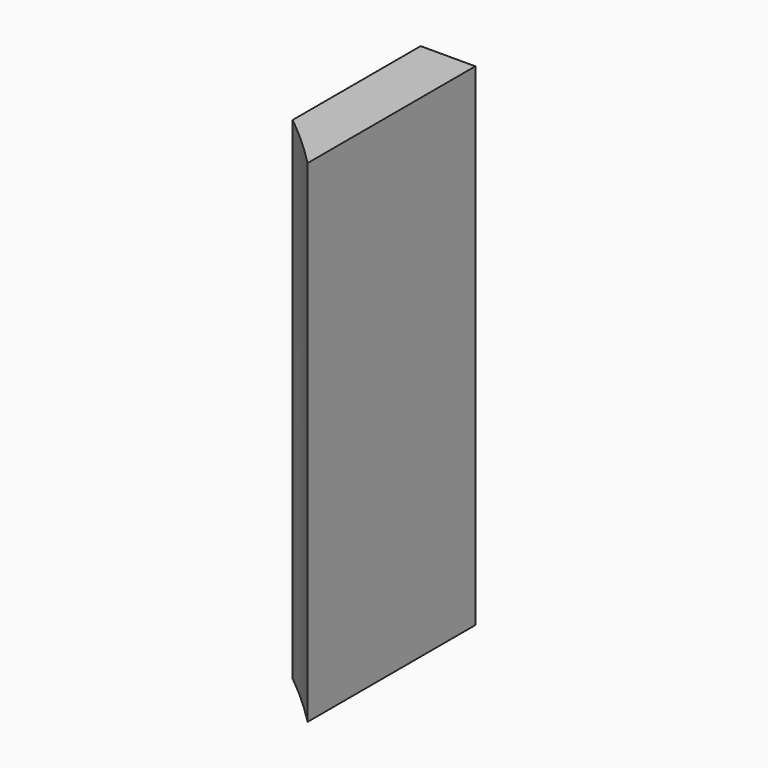
from build123d import *

# Parameters (mm, degrees)
CYLINDER1824_R     = 35
CYLINDER1824_DEPTH = 32
BOX721_W           = 3
BOX721_H           = 14
BOX721_DEPTH       = 27


with BuildPart() as obj1:
    # Cylinder1824 → Cylinder1824 (new body)
    with BuildSketch(Plane.XY.offset(-4)):
        Circle(CYLINDER1824_R)
    extrude(amount=CYLINDER1824_DEPTH)


with BuildPart() as cut535:
    # Box721 → Box721 (new body)
    with BuildSketch(Plane(origin=(22, 22, -4), x_dir=(1, 0, 0), z_dir=(0, 0, 1))):
        with Locations((1.5, 7)):
            Rectangle(BOX721_W, BOX721_H)
    extrude(amount=BOX721_DEPTH)

    # Cut535: cut obj1
    add(obj1.part, mode=Mode.SUBTRACT)


solid = cut535.part
